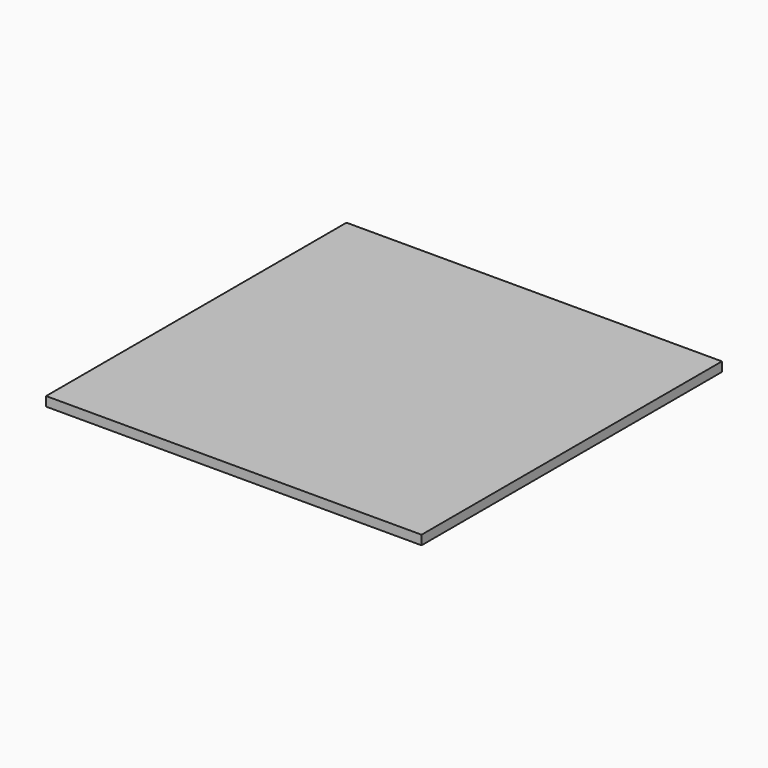
from build123d import *

# Parameters (mm, degrees)
SKETCH_W  = 241.3
SKETCH_H  = 241.3
PAD_DEPTH = 6


with BuildPart() as part:
    # Sketch → Pad (new body)
    with BuildSketch(Plane.XY):
        Rectangle(SKETCH_W, SKETCH_H)
    extrude(amount=PAD_DEPTH)


solid = part.part
